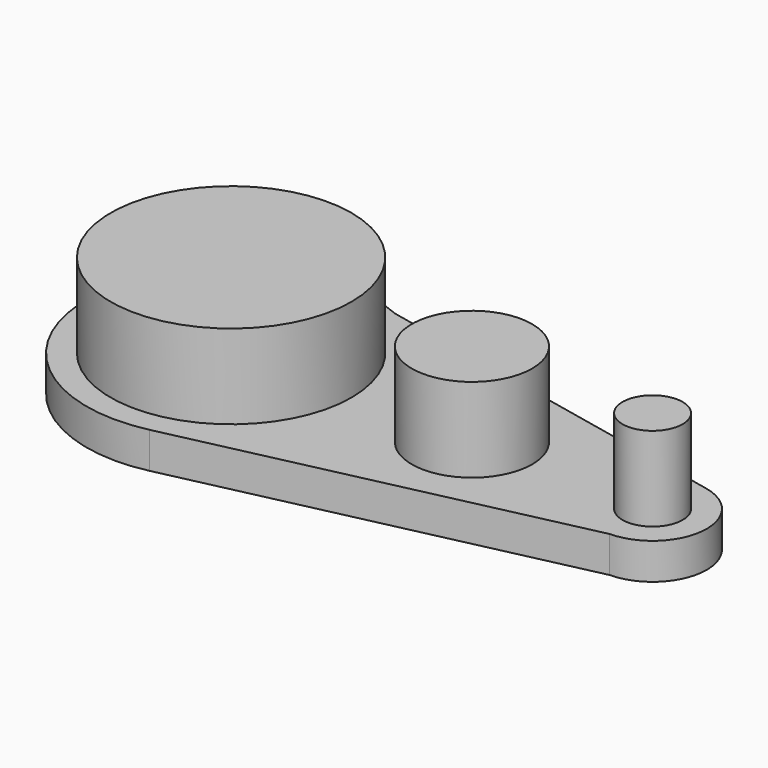
from build123d import *

# Parameters (mm, degrees)
F0_R     = 10
F0_R_2   = 5
F0_R_3   = 2.5
F1_DEPTH = 3
F2_DEPTH = 10


with BuildPart() as f1:
    # F0 (on Top) → F1 (new body)
    with BuildSketch(Plane.XY):
        with BuildLine():
            Line((2.605609, -11.713701), (35.035962, -4.499856))
            ThreePointArc((35.035962, -4.499856), (39.477433, -0.450106), (35.930912, 4.402659))
            Line((35.930912, 4.402659), (4.857465, 10.972923))
            ThreePointArc((4.857465, 10.972923), (-11.941319, 1.185285), (2.605609, -11.713701))
        make_face()
        Circle(F0_R, mode=Mode.SUBTRACT)
        with Locations((20, 0)):
            Circle(F0_R_2, mode=Mode.SUBTRACT)
        with Locations((35, 0)):
            Circle(F0_R_3, mode=Mode.SUBTRACT)
        Circle(F0_R)
        with Locations((20, 0)):
            Circle(F0_R_2)
        with Locations((35, 0)):
            Circle(F0_R_3)
    extrude(amount=F1_DEPTH)

    # F0 (on Top) → F2 (join)
    with BuildSketch(Plane.XY):
        Circle(F0_R)
        with Locations((20, 0)):
            Circle(F0_R_2)
        with Locations((35, 0)):
            Circle(F0_R_3)
    extrude(amount=F2_DEPTH)


solid = f1.part
